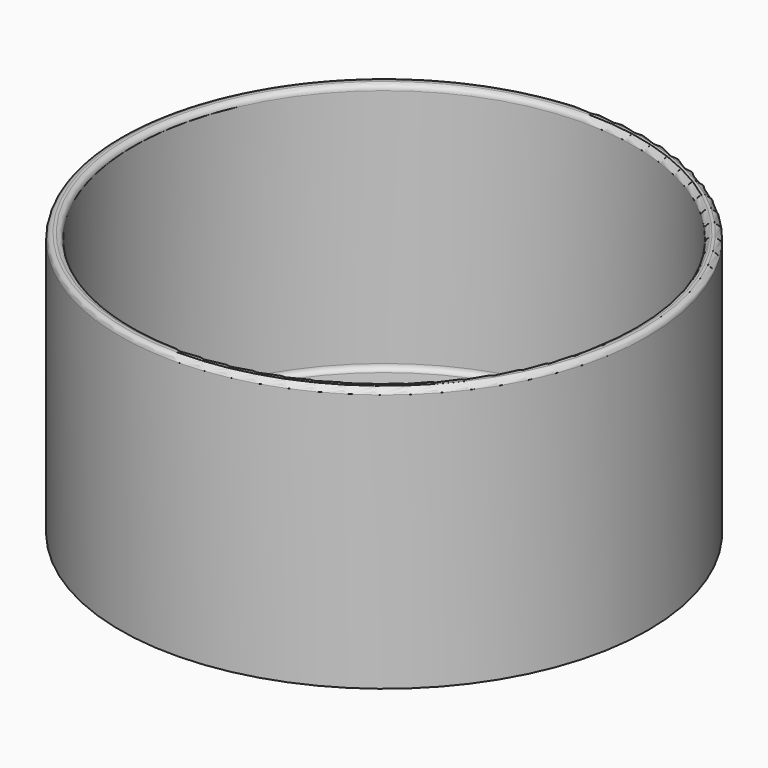
from build123d import *

# Parameters (mm, degrees)
F0_R     = 50
F1_DEPTH = 50
F2_T     = -2.5
F3_R     = 1


with BuildPart() as f1:
    # F0 (on Top) → F1 (new body)
    with BuildSketch(Plane.XY):
        Circle(F0_R)
    extrude(amount=F1_DEPTH)

    # F2
    f2_openings = [f1.faces().sort_by_distance(p)[0] for p in [
        (0, 0, 50),
    ]]
    offset(amount=F2_T, openings=f2_openings)

    # F3
    f3_edges = [f1.edges().sort_by_distance(p)[0] for p in [
        (-50, 0, 50),
        (-47.5, 0, 50),
        (-47.5, 0, 2.5),
    ]]
    fillet(f3_edges, radius=F3_R)


solid = f1.part
